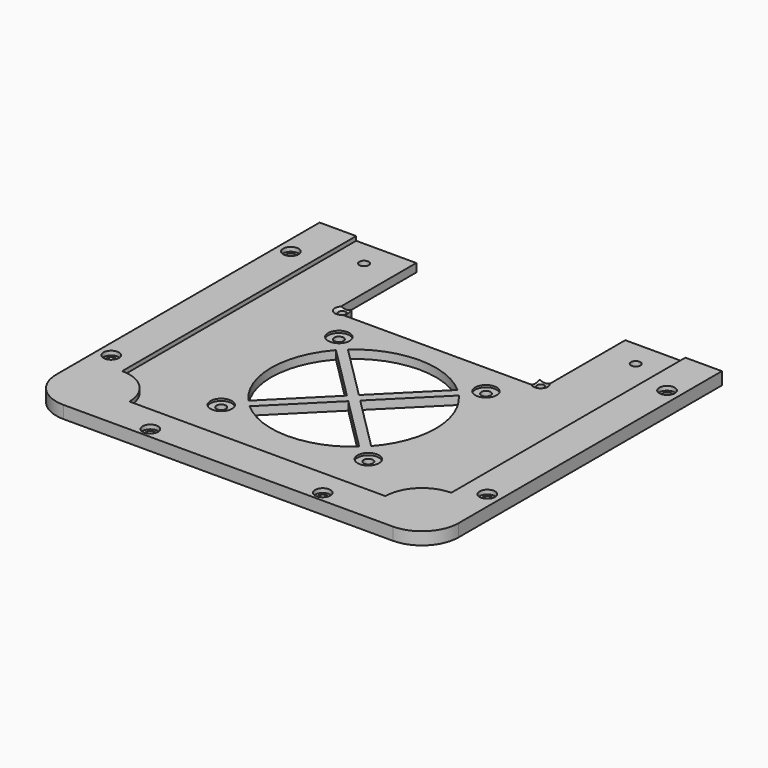
from build123d import *

# Parameters (mm, degrees)
PAD_DEPTH           = 4.064
POCKET_DEPTH        = 4.064
HOLE_D              = 4.572
HOLE_DEPTH          = 635
HOLE_CBORE_D        = 10.414
HOLE_CBORE_DEPTH    = 1.016
POCKET001_DEPTH     = 4.064
HOLE001_D           = 3.499993
HOLE001_DEPTH       = 635
HOLE001_CSINK_D     = 7.000011
HOLE001_CSINK_ANGLE = 120
SKETCH005_R         = 2.286
POCKET002_DEPTH     = 4.064
PAD001_DEPTH        = 2.032
HOLE002_D           = 4.572
HOLE002_DEPTH       = 635
HOLE002_CBORE_D     = 7.50001
HOLE002_CBORE_DEPTH = 2.032


with BuildPart() as part:
    # Sketch → Pad (new body)
    with BuildSketch(Plane.XY):
        with BuildLine():
            Line((-97.79, 80.01), (-97.79, -80.01))
            ThreePointArc((-97.79, -80.01), (-92.582359, -92.582359), (-80.01, -97.79))
            Line((-80.01, -97.79), (80.01, -97.79))
            ThreePointArc((80.01, -97.79), (92.582359, -92.582359), (97.79, -80.01))
            Line((97.79, -80.01), (97.79, 80.01))
            Line((-97.79, 80.01), (97.79, 80.01))
        make_face()
    extrude(amount=PAD_DEPTH)

    # Sketch001 (on Face8 of Pad) → Pocket (cut)
    with BuildSketch(Plane.XY.offset(4.064)):
        with BuildLine():
            ThreePointArc((-29.858031, 5.035139), (-40.005, -21.59), (-29.858031, -48.215139))
            Line((-29.858031, -48.215139), (-3.232892, -21.59))
            Line((-3.232892, -21.59), (-29.858031, 5.035139))
        make_face()
        with BuildLine():
            ThreePointArc((26.625139, 8.268031), (0, 18.415), (-26.625139, 8.268031))
            Line((-26.625139, 8.268031), (0, -18.357108))
            Line((0, -18.357108), (26.625139, 8.268031))
        make_face()
        with BuildLine():
            ThreePointArc((29.858031, -48.215139), (40.005, -21.59), (29.858031, 5.035139))
            Line((3.232892, -21.59), (29.858031, 5.035139))
            Line((3.232892, -21.59), (29.858031, -48.215139))
        make_face()
        with BuildLine():
            ThreePointArc((-26.625139, -51.448031), (0, -61.595), (26.625139, -51.448031))
            Line((0, -24.822892), (26.625139, -51.448031))
            Line((0, -24.822892), (-26.625139, -51.448031))
        make_face()
    extrude(amount=-POCKET_DEPTH, mode=Mode.SUBTRACT)

    # Hole
    with Locations(Plane.XY.offset(4.064)):
        with Locations((-35.7505, 14.1605), (35.7505, 14.1605), (35.7505, -57.3405), (-35.7505, -57.3405)):
            CounterBoreHole(HOLE_D / 2, HOLE_CBORE_D / 2, HOLE_CBORE_DEPTH, depth=HOLE_DEPTH)

    # Sketch003 (on Face5 of Hole) → Pocket001 (cut)
    with BuildSketch(Plane.XY.offset(4.064)):
        Polygon((-50.8, 80.01), (-50.8, 34.29), (-45.72, 34.29), (-45.72, 29.21), (45.72, 29.21), (45.72, 34.29), (50.8, 34.29), (50.8, 80.01), align=None)
    extrude(amount=-POCKET001_DEPTH, mode=Mode.SUBTRACT)

    # Hole001
    with Locations(Plane.XY.offset(4.064)):
        with Locations((-48.26, 31.75), (48.26, 31.75)):
            CounterSinkHole(HOLE001_D / 2, HOLE001_CSINK_D / 2, depth=HOLE001_DEPTH, counter_sink_angle=HOLE001_CSINK_ANGLE)

    # Sketch005 (on Face5 of Hole001) → Pocket002 (cut)
    with BuildSketch(Plane.XY.offset(4.064)):
        with Locations((66.04, 67.31)):
            Circle(SKETCH005_R)
        with Locations((-66.04, 67.31)):
            Circle(SKETCH005_R)
    extrude(amount=-POCKET002_DEPTH, mode=Mode.SUBTRACT)

    # Sketch006 (on Face5 of Pocket002) → Pad001 (join)
    with BuildSketch(Plane.XY.offset(4.064)):
        with BuildLine():
            Line((-97.79, 80.01), (-80.01, 80.01))
            Line((-80.01, 80.01), (-80.01, -62.23))
            ThreePointArc((-62.23, -80.01), (-67.437641, -67.437641), (-80.01, -62.23))
            Line((-62.23, -80.01), (62.23, -80.01))
            ThreePointArc((80.01, -62.23), (67.437641, -67.437641), (62.23, -80.01))
            Line((80.01, -62.23), (80.01, 80.01))
            Line((80.01, 80.01), (97.79, 80.01))
            Line((97.79, 80.01), (97.79, -80.01))
            ThreePointArc((80.01, -97.79), (92.582359, -92.582359), (97.79, -80.01))
            Line((80.01, -97.79), (-80.01, -97.79))
            ThreePointArc((-97.79, -80.01), (-92.582359, -92.582359), (-80.01, -97.79))
            Line((-97.79, -80.01), (-97.79, 80.01))
        make_face()
    extrude(amount=PAD001_DEPTH)

    # Hole002
    with Locations(Plane.XY.offset(6.096)):
        with Locations((-91.44, 54.61), (-91.44, -54.61), (-41.91, -92.71), (41.91, -92.71), (91.44, -54.61), (91.44, 54.61)):
            CounterBoreHole(HOLE002_D / 2, HOLE002_CBORE_D / 2, HOLE002_CBORE_DEPTH, depth=HOLE002_DEPTH)


solid = part.part
